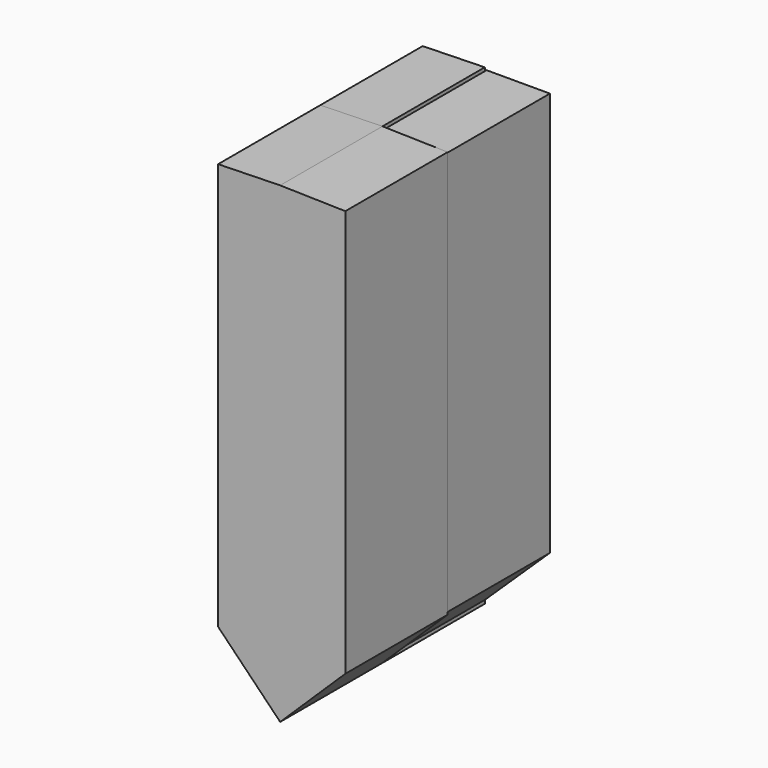
from build123d import *

# Parameters (mm, degrees)
F1_DEPTH = 25.4
F3_DEPTH = 25.4


with BuildPart() as f1:
    # F0 (on Front) → F1 (new body)
    with BuildSketch(Plane.XZ):
        Polygon((-12.9417075639, 55.9666713831), (-25.2744760364, 55.6658692658), (-25.2744760364, -25.2348184586), (-12.9417075639, -37.8683881451), align=None)
        Polygon((0, 55.6658692658), (-12.9417075639, 55.9666713831), (-12.9417075639, -37.8683881451), (0, -25.2348184586), align=None)
    extrude(amount=F1_DEPTH)


with BuildPart() as f3:
    # F0 (on Front) → F3 (new body)
    with BuildSketch(Plane.XZ):
        Polygon((-12.9417075639, 55.9666713831), (-25.2744760364, 55.6658692658), (-25.2744760364, -25.2348184586), (-12.9417075639, -37.8683881451), align=None)
    extrude(amount=-F3_DEPTH)


with BuildPart() as f3b:
    # F2 (on Front) → F3, piece 2 (new body)
    with BuildSketch(Plane.XZ):
        Polygon((0, -24.7484948486), (0, 55.5793456733), (-12.573570013, 55.5793456733), (-13.0771576072, -37.3119761499), align=None)
    extrude(amount=-F3_DEPTH)


solid = Compound([f1.part, f3.part, f3b.part])
